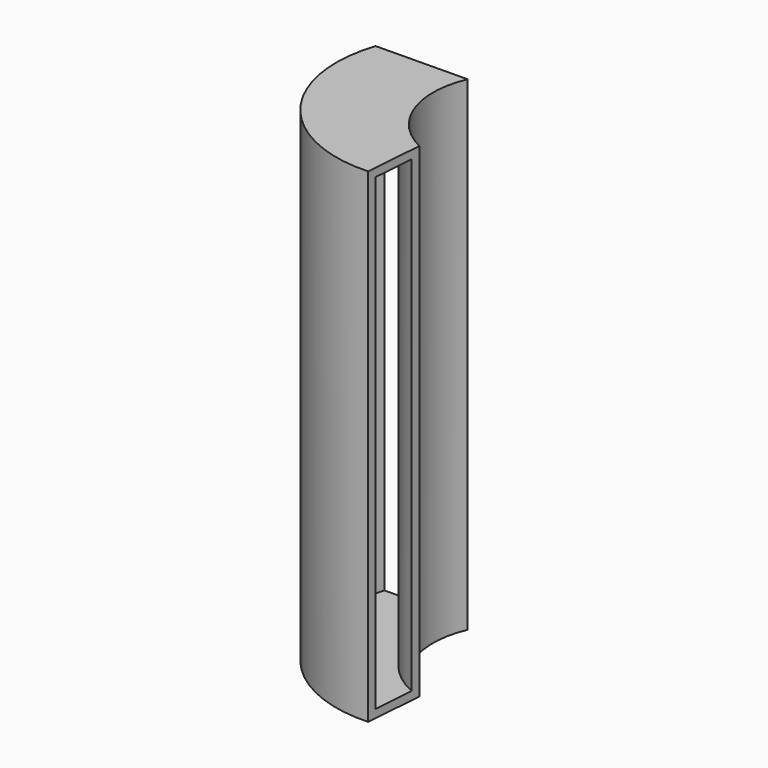
from build123d import *

# Parameters (mm, degrees)
F1_DEPTH = 149.5044
F2_T     = -2.54


with BuildPart() as f1:
    # F0 (on Top) → F1 (new body)
    with BuildSketch(Plane.XY):
        with BuildLine():
            Line((-32.128561, 23.122371), (-60.244947, 22.791589))
            ThreePointArc((-60.244947, 22.791589), (-54.297209, -13.694877), (-20.819072, -29.374547))
            Line((-20.819072, -29.374547), (-19.473564, -11.344731))
            ThreePointArc((-19.473564, -11.344731), (-32.715628, 3.350057), (-32.128561, 23.122371))
        make_face()
    extrude(amount=F1_DEPTH)

    # F2
    f2_openings = [f1.faces().sort_by_distance(p)[0] for p in [
        (-46.186754, 22.95698, 74.7522),
        (-20.146318, -20.359639, 74.7522),
    ]]
    offset(amount=F2_T, openings=f2_openings)


solid = f1.part
